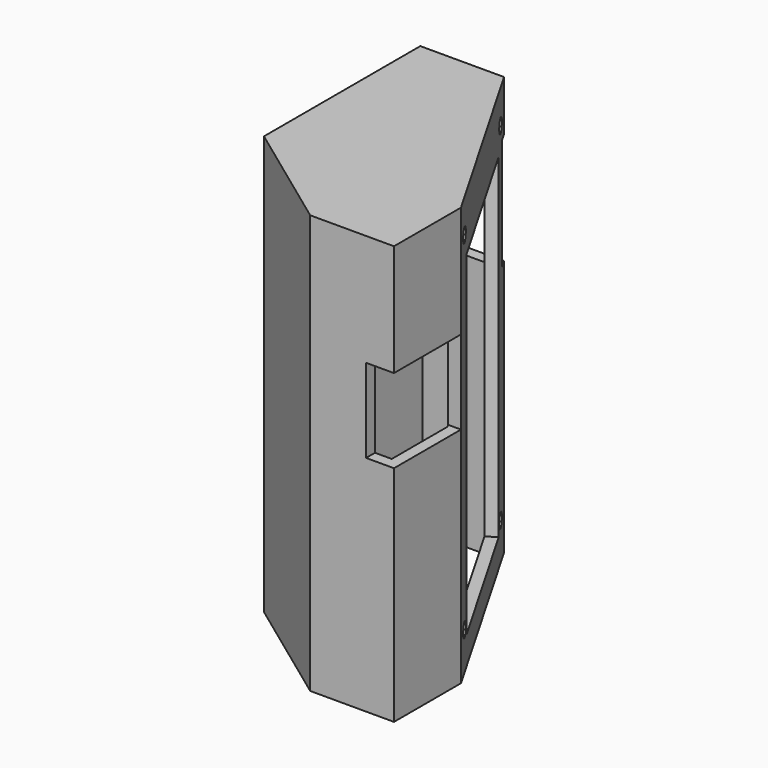
from build123d import *

# Parameters (mm, degrees)
PAD_DEPTH       = 75
POCKET_DEPTH    = 73
SKETCH002_R     = 1.25
SKETCH002_W     = 30
SKETCH002_H     = 60
POCKET001_DEPTH = 5
SKETCH005_W     = 10
SKETCH005_H     = 20
POCKET002_DEPTH = 2
SKETCH004_W     = 15
SKETCH004_H     = 15
POCKET003_DEPTH = 5
POCKET004_DEPTH = 1.5


with BuildPart() as part:
    # Sketch → Pad (new body)
    with BuildSketch(Plane.XY):
        Polygon((-15, 28.7253277197), (-15, -6.2746722803), (5, -20.9156884317), (20, -20.9156884317), (20, -5.9156884317), (0, 28.7253277197), align=None)
    extrude(amount=PAD_DEPTH)

    # Sketch001 (on Face7 of Pad) → Pocket (cut)
    with BuildSketch(Plane(origin=(0, 0, 0), x_dir=(1, 0, 0), z_dir=(0, 0, -1))):
        Polygon((-13, 4.2746722803), (7, 18.9156884317), (18, 18.9156884317), (18, 6.4515868166), (-1.1547005384, -26.7253277197), (-13, -26.7253277197), align=None)
    extrude(amount=-POCKET_DEPTH, mode=Mode.SUBTRACT)

    # Sketch002 (on Face6 of Pocket) → Pocket001 (cut)
    with BuildSketch(Plane(origin=(12.4384317686, 7.1813319299, 0), x_dir=(-0.5, 0.8660254038, 0), z_dir=(0.8660254038, 0.5, 0))):
        with Locations((-11.8731364627, 69)):
            Circle(SKETCH002_R)
        with Locations((21.6268635373, 6.75)):
            Circle(SKETCH002_R)
        with Locations((-11.8731364627, 6.75)):
            Circle(SKETCH002_R)
        with Locations((21.6268635373, 69)):
            Circle(SKETCH002_R)
        with Locations((4.8768635373, 35)):
            Rectangle(SKETCH002_W, SKETCH002_H)
    extrude(amount=-POCKET001_DEPTH, mode=Mode.SUBTRACT)

    # Sketch005 (on Face2 of Pocket001) → Pocket002 (cut)
    with BuildSketch(Plane(origin=(0, 28.7253277197, 0), x_dir=(-1, 0, 0), z_dir=(0, 1, 0))):
        with Locations((4, 56)):
            Rectangle(SKETCH005_W, SKETCH005_H)
    extrude(amount=-POCKET002_DEPTH, mode=Mode.SUBTRACT)

    # Sketch004 (on Face8 of Pocket001) → Pocket003 (cut)
    with BuildSketch(Plane.YZ.offset(20)):
        with Locations((-13.4156884317, 47.5)):
            Rectangle(SKETCH004_W, SKETCH004_H)
    extrude(amount=-POCKET003_DEPTH, mode=Mode.SUBTRACT)

    # Sketch006 (on Face12 of Pocket003) → Pocket004 (cut)
    with BuildSketch(Plane(origin=(-6.5733230776, -8.9793263113, 0), x_dir=(-0.8068982214, 0.5906904946, 0), z_dir=(0.5906904946, 0.8068982214, 0))):
        with BuildLine():
            ThreePointArc((7.2285743414, 50.5731403336), (-4.2714256586, 62.0731403336), (-15.7714256586, 50.5731403336))
            Line((-15.7714256586, 50.5731403336), (-15.7714256586, 23.5731403336))
            ThreePointArc((-15.7714256586, 23.5731403336), (-4.2714256586, 12.0731403336), (7.2285743414, 23.5731403336))
            Line((7.2285743414, 50.5731403336), (7.2285743414, 23.5731403336))
        make_face()
    extrude(amount=-POCKET004_DEPTH, mode=Mode.SUBTRACT)


solid = part.part
